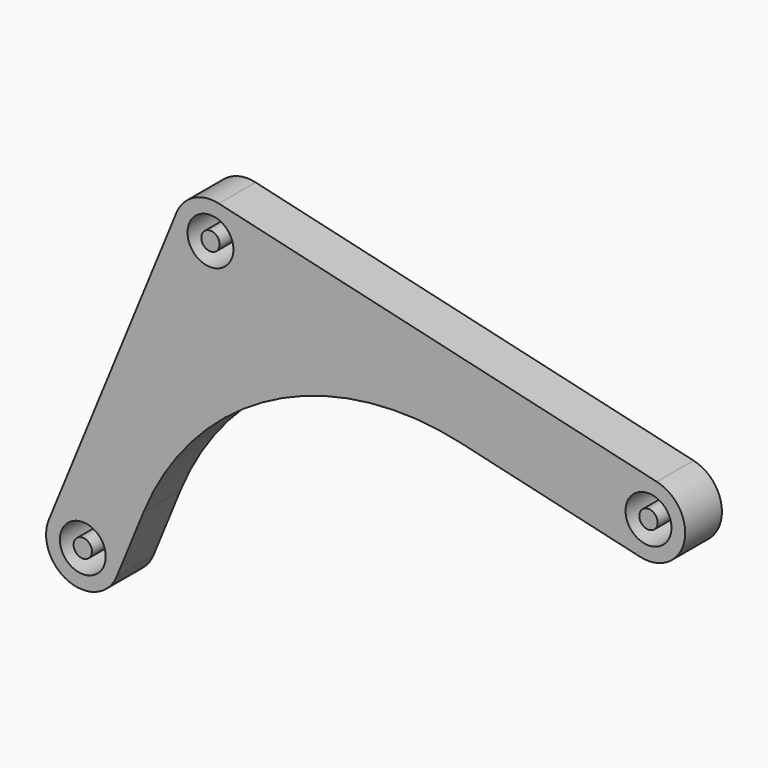
from build123d import *

# Parameters (mm, degrees)
F0_R     = 2.5
F0_R_2   = 1
F1_DEPTH = 5


with BuildPart() as f1:
    # F0 (on Front) → F1 (new body)
    with BuildSketch(Plane.XZ):
        with BuildLine():
            Line((10.203651, 35.479226), (-3.70176, 1.515576))
            ThreePointArc((-3.70176, 1.515576), (-1.515576, -3.70176), (3.70176, -1.515576))
            Line((3.70176, -1.515576), (6.623268, 5.620141))
            ThreePointArc((6.623268, 5.620141), (20.634921, 20.915932), (41.221154, 23.464398))
            Line((41.221154, 23.464398), (60.705548, 18.905522))
            ThreePointArc((60.705548, 18.905522), (65.511649, 21.889042), (62.52813, 26.695143))
            Line((62.52813, 26.695143), (14.816702, 37.858461))
            ThreePointArc((14.816702, 37.858461), (12.071871, 37.518665), (10.203651, 35.479226))
        make_face()
        Circle(F0_R, mode=Mode.SUBTRACT)
        with Locations((13.905411, 33.96365)):
            Circle(F0_R, mode=Mode.SUBTRACT)
        with Locations((61.616839, 22.800333)):
            Circle(F0_R, mode=Mode.SUBTRACT)
        with Locations((13.905411, 33.96365)):
            Circle(F0_R_2)
        Circle(F0_R_2)
        with Locations((61.616839, 22.800333)):
            Circle(F0_R_2)
    extrude(amount=F1_DEPTH)


solid = f1.part
